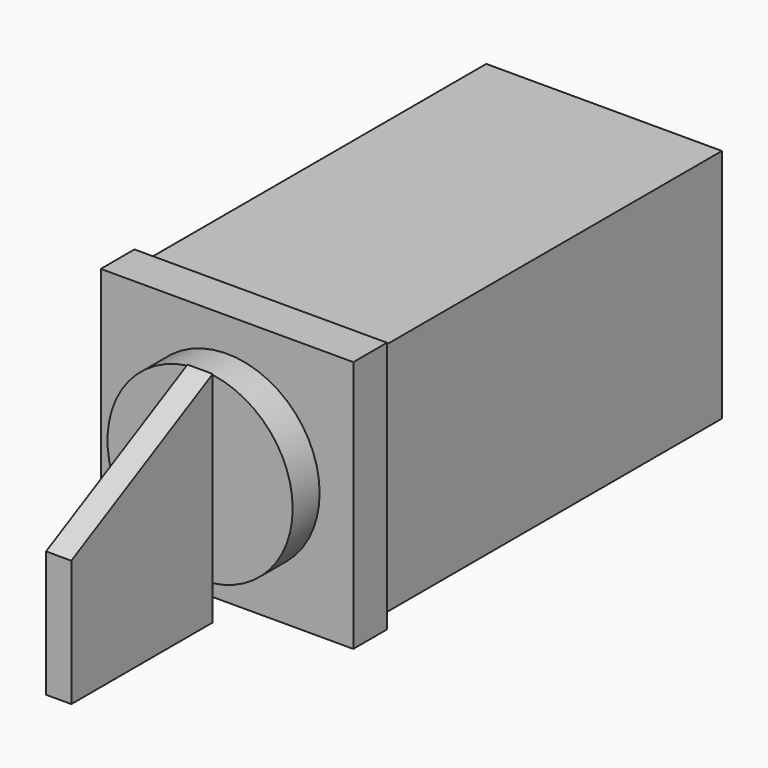
from build123d import *

# Parameters (mm, degrees)
F0_W     = 28
F0_H     = 28
F1_DEPTH = 51
F2_W     = 30
F2_H     = 30
F3_DEPTH = 5
F4_R     = 11
F5_DEPTH = 4
F6_W     = 3
F6_H     = 15
F7_DEPTH = 21
F9_DEPTH = 3


with BuildPart() as f1:
    # F0 (on Front) → F1 (new body)
    with BuildSketch(Plane.XZ):
        Rectangle(F0_W, F0_H)
    extrude(amount=-F1_DEPTH)

    # F2 (on Front) → F3 (join)
    with BuildSketch(Plane.XZ):
        Rectangle(F2_W, F2_H)
    extrude(amount=F3_DEPTH)

    # F4 (on face) → F5 (join)
    with BuildSketch(Plane.XZ.offset(5)):
        Circle(F4_R)
    extrude(amount=F5_DEPTH)

    # F6 (on face) → F7 (join)
    with BuildSketch(Plane.XZ.offset(9)):
        with Locations((0, -7.5)):
            Rectangle(F6_W, F6_H)
    extrude(amount=F7_DEPTH)

    # F8 (on face) → F9 (join)
    with BuildSketch(Plane.YZ.offset(1.5)):
        Polygon((-9, 11), (-30, 0), (-9, 0), align=None)
    extrude(amount=-F9_DEPTH)


solid = f1.part
